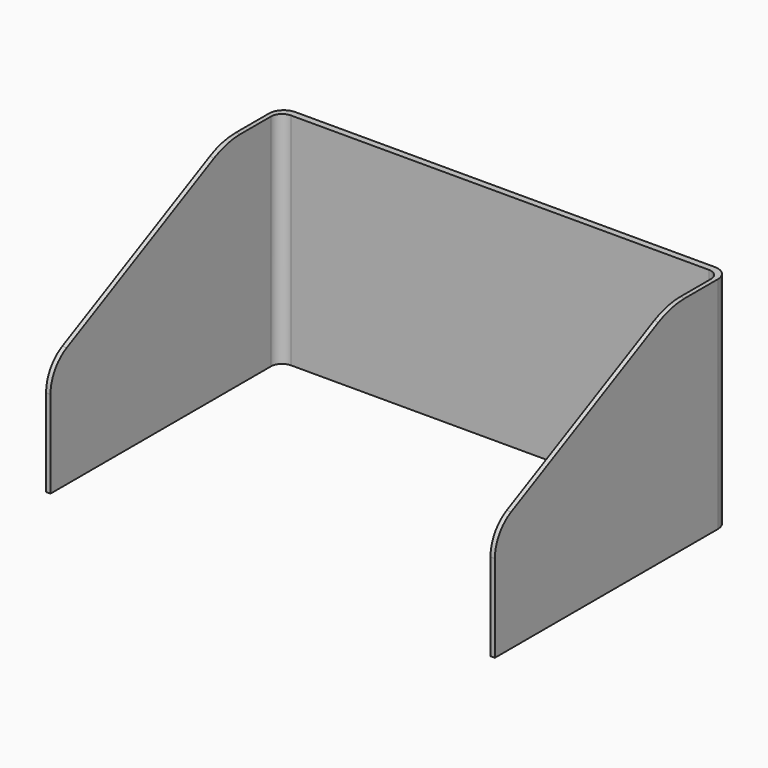
from build123d import *

# Parameters (mm, degrees)
F1_DEPTH = 60
F2_SIZE2 = 30
F2_SIZE  = 60
F3_R     = 20
F4_R     = 10
F5_R     = 3
F6_R     = 4


with BuildPart() as f1:
    # F0 (on Top) → F1 (new body)
    with BuildSketch(Plane.XY):
        Polygon((-69.0494580577, 36.7513514241), (-69.0494580577, -43.2486485759), (-67.8494580577, -43.2486485759), (-67.8494580577, 34.9513514241), (52.1505419423, 34.9513514241), (52.1505419423, -43.2486485759), (53.3505419423, -43.2486485759), (53.3505419423, 36.7513514241), align=None)
    extrude(amount=F1_DEPTH)

    # F2
    f2_edges = [f1.edges().sort_by_distance(p)[0] for p in [
        (-68.449458, -43.248649, 60),
        (52.750542, -43.248649, 60),
    ]]
    f2_side = f1.faces().sort_by_distance((-68.903233, -3.248649, 60))[0]
    chamfer(f2_edges, length=F2_SIZE, length2=F2_SIZE2, reference=f2_side)

    # F3
    f3_edges = [f1.edges().sort_by_distance(p)[0] for p in [
        (-68.449458, 16.751351, 60),
        (52.750542, 16.751351, 60),
    ]]
    fillet(f3_edges, radius=F3_R)

    # F4
    f4_edges = [f1.edges().sort_by_distance(p)[0] for p in [
        (-68.449458, -43.248649, 30),
        (52.750542, -43.248649, 30),
    ]]
    fillet(f4_edges, radius=F4_R)

    # F5
    f5_edges = [f1.edges().sort_by_distance(p)[0] for p in [
        (-67.849458, 34.951351, 30),
        (52.150542, 34.951351, 30),
    ]]
    fillet(f5_edges, radius=F5_R)

    # F6
    f6_edges = [f1.edges().sort_by_distance(p)[0] for p in [
        (53.350542, 36.751351, 30),
        (-69.049458, 36.751351, 30),
    ]]
    fillet(f6_edges, radius=F6_R)


solid = f1.part
